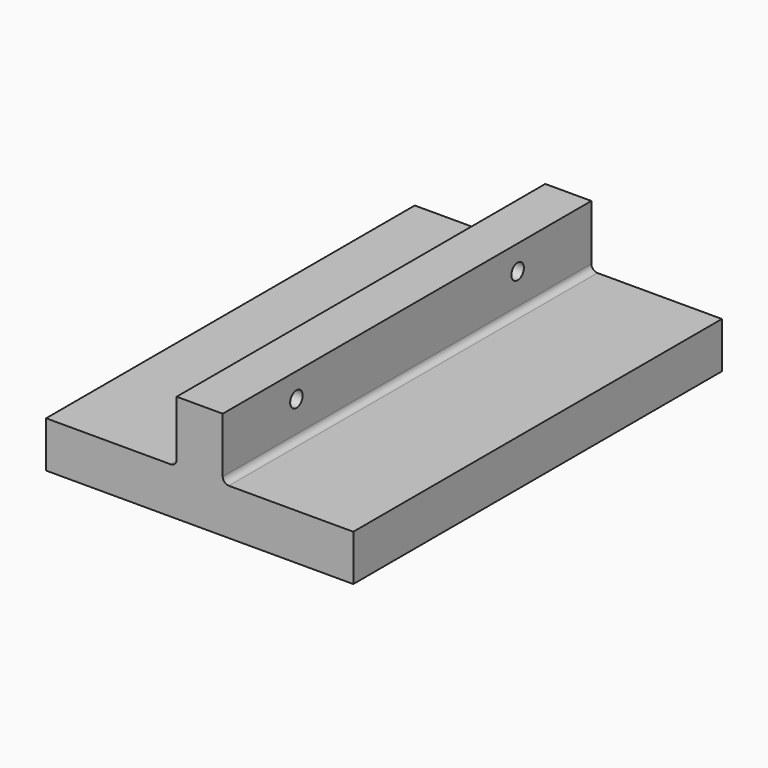
from build123d import *

# Parameters (mm, degrees)
F1_DEPTH = 150
F2_R     = 2.55
F3_DEPTH = 15
F4_R     = 2


with BuildPart() as f1:
    # F0 (on Front) → F1 (new body)
    with BuildSketch(Plane.XZ):
        Polygon((-53.166667, 15), (-53.166667, 0), (46.833333, 0), (46.833333, 15), (4.333333, 15), (4.333333, 35), (-10.666667, 35), (-10.666667, 15), align=None)
    extrude(amount=F1_DEPTH)

    # F2 (on face) → F3 (cut, through all)
    with BuildSketch(Plane.YZ.offset(4.333333)):
        with Locations((-120, 27)):
            Circle(F2_R)
        with Locations((-30, 27)):
            Circle(F2_R)
    extrude(amount=-F3_DEPTH, mode=Mode.SUBTRACT)

    # F4
    f4_edges = [f1.edges().sort_by_distance(p)[0] for p in [
        (-10.666667, -75, 15),
        (4.333333, -75, 15),
    ]]
    fillet(f4_edges, radius=F4_R)


solid = f1.part
